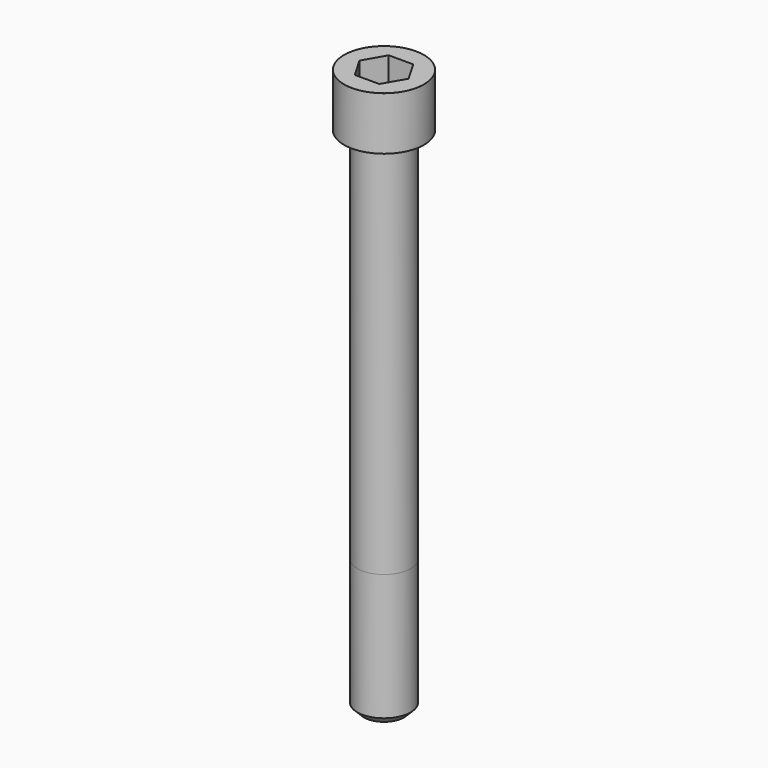
from build123d import *

# Parameters (mm, degrees)
POCKET_DEPTH = 19.15


with BuildPart() as part:
    # Sketch → Revolve (revolve)
    with BuildSketch(Plane.YZ):
        with BuildLine():
            Line((11.999, 0), (18, 0))
            Line((18, 0), (18, 23.97229))
            ThreePointArc((18, 23.97229), (17.991884, 23.991884), (17.97229, 24))
            Line((17.97229, 24), (0, 24))
            Line((0, -230), (0, 24))
            Line((9, -230), (0, -230))
            Line((12, -227), (9, -230))
            Line((12, -170), (12, -227))
            Line((11.999, 0), (12, -170))
        make_face()
    revolve(axis=Axis((0, 0, 0), (0, 0, 1)))

    # Sketch001 → Pocket (cut)
    with BuildSketch(Plane.XY.offset(24)):
        Polygon((11.056258, 0), (5.528129, 9.575), (-5.528129, 9.575), (-11.056258, 0), (-5.528129, -9.575), (5.528129, -9.575), align=None)
    extrude(amount=-POCKET_DEPTH, mode=Mode.SUBTRACT)


solid = part.part
